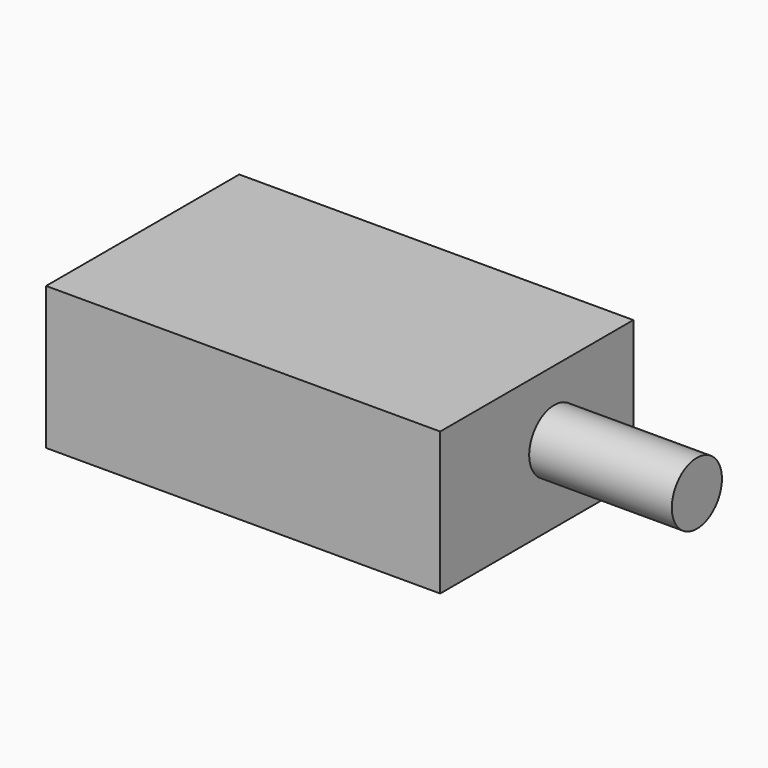
from build123d import *

# Parameters (mm, degrees)
F0_W     = 70.179082
F0_H     = 42.985354
F1_DEPTH = 25.4
F2_R     = 5.572861
F3_DEPTH = 25.4


with BuildPart() as f1:
    # F0 (on Top) → F1 (new body)
    with BuildSketch(Plane.XY):
        with Locations((35.089541, 21.492677)):
            Rectangle(F0_W, F0_H)
    extrude(amount=F1_DEPTH)

    # F2 (on face) → F3 (join)
    with BuildSketch(Plane.YZ.offset(70.179082)):
        with Locations((25.381729, 13.663242)):
            Circle(F2_R)
    extrude(amount=F3_DEPTH)


solid = f1.part
